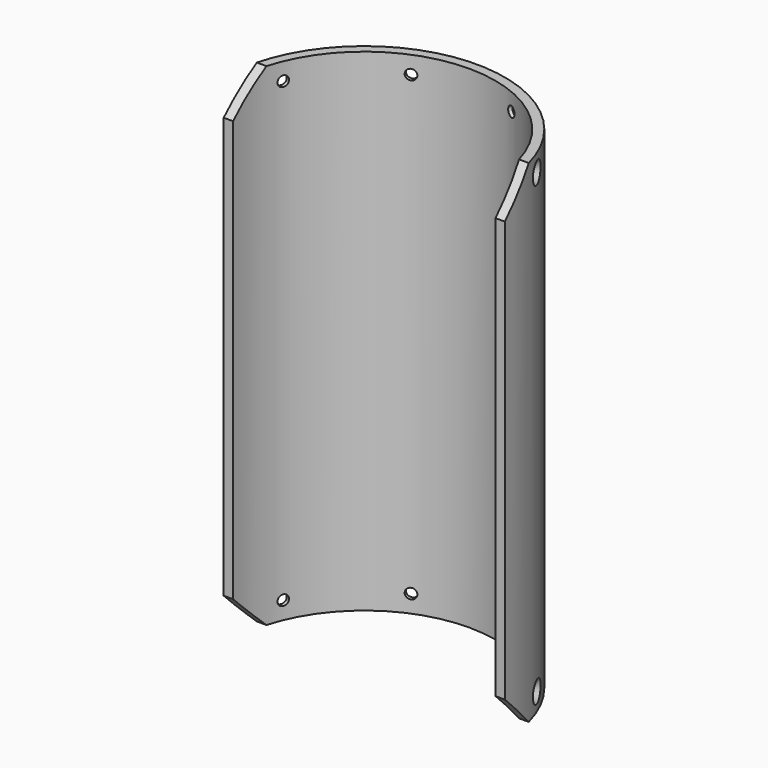
from build123d import *

# Parameters (mm, degrees)
PAD_DEPTH          = 105
POCKET_DEPTH       = 60.001
SKETCH003_R        = 1.1
POCKET001_DEPTH    = 3
SKETCH004_R        = 1.1
POCKET002_DEPTH    = 3
POLARPATTERN_COUNT = 4
CHAMFER_SIZE       = 1.2


with BuildPart() as part:
    # Sketch → Pad (new body)
    with BuildSketch(Plane.XY):
        with BuildLine():
            ThreePointArc((30, 0), (0, 30), (-30, 0))
            Line((-30, 0), (-28, 0))
            ThreePointArc((28, 0), (0, 28), (-28, 0))
            Line((28, 0), (30, 0))
        make_face()
    extrude(amount=PAD_DEPTH)

    # Sketch001 (on DatumPlane) → Pocket (cut, through all)
    with BuildSketch(Plane(origin=(30, 0, 0), x_dir=(0, -1, 0), z_dir=(-1, 0, 0))):
        Polygon((0, 0), (-7.6, 0), (0, 7.6), align=None)
        Polygon((0, 97.4), (-7.6, 105), (0, 105), align=None)
    extrude(amount=POCKET_DEPTH, mode=Mode.SUBTRACT)

    # Sketch003 (on DatumPlane) → Pocket001 (cut)
    with BuildSketch(Plane(origin=(27.716386, 11.480503, 0), x_dir=(0.382683, -0.92388, 0), z_dir=(-0.92388, -0.382683, 0))):
        with Locations((0, 3.75)):
            Circle(SKETCH003_R)
        with Locations((0, 101.25)):
            Circle(SKETCH003_R)
    pocket001 = extrude(amount=POCKET001_DEPTH, mode=Mode.SUBTRACT)

    # Sketch004 (on DatumPlane) → Pocket002 (cut)
    with BuildSketch(Plane(origin=(11.480503, 27.716386, 0), x_dir=(0.92388, -0.382683, 0), z_dir=(-0.382683, -0.92388, 0))):
        with Locations((0, 101.25)):
            Circle(SKETCH004_R)
        with Locations((0, 3.75)):
            Circle(SKETCH004_R)
    pocket002 = extrude(amount=POCKET002_DEPTH, mode=Mode.SUBTRACT)

    # PolarPattern: Pocket001, Pocket002 ×4 about axis
    polarpattern_axis = Axis((0, 0, 0), (0, 0, 1))
    for i in range(1, POLARPATTERN_COUNT):
        add(pocket001.rotate(polarpattern_axis, i * 360 / POLARPATTERN_COUNT), mode=Mode.SUBTRACT)
        add(pocket002.rotate(polarpattern_axis, i * 360 / POLARPATTERN_COUNT), mode=Mode.SUBTRACT)

    # Chamfer
    chamfer_edges = [part.edges().sort_by_distance(p)[0] for p in [
        (-28.1187, 10.456515, 3.75),
        (-27.409411, 12.195253, 2.972183),
        (-27.409411, 12.195253, 4.527817),
        (-10.758035, 28.004726, 2.972182),
        (-12.48905, 27.276796, 3.750001),
        (-10.758034, 28.004726, 4.527817),
        (12.195253, 27.409411, 2.972182),
        (10.456515, 28.1187, 3.75),
        (12.195253, 27.409411, 4.527817),
        (-28.1187, 10.456515, 101.25),
        (-27.409411, 12.195253, 100.472183),
        (-27.409411, 12.195253, 102.027817),
        (-12.48905, 27.276796, 101.250001),
        (-10.758034, 28.004726, 100.472182),
        (-10.758033, 28.004727, 102.027817),
        (10.456515, 28.1187, 101.25),
        (12.195253, 27.409411, 100.472183),
        (12.195253, 27.409411, 102.027817),
        (28.004726, 10.758034, 100.472182),
        (27.276796, 12.48905, 101.250001),
        (28.004726, 10.758034, 102.027817),
        (28.004726, 10.758034, 2.972182),
        (28.004726, 10.758034, 4.527817),
        (27.276796, 12.48905, 3.75),
    ]]
    chamfer(chamfer_edges, length=CHAMFER_SIZE)


solid = part.part
